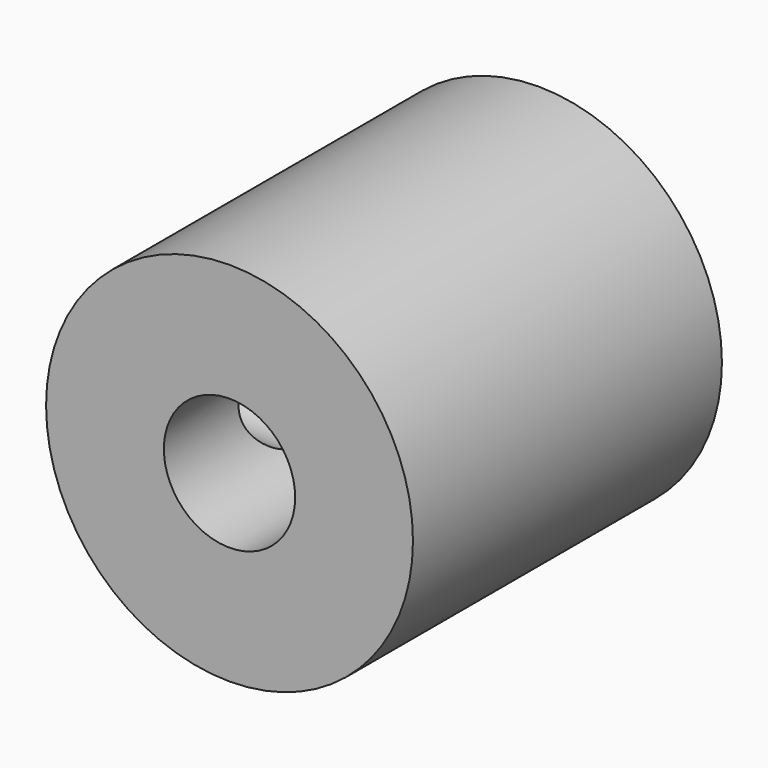
from build123d import *

# Parameters (mm, degrees)
F0_R     = 4.75
F0_R_2   = 1.7
F1_DEPTH = 10
F2_R     = 1.25
F3_DEPTH = 25


with BuildPart() as f1:
    # F0 (on Front) → F1 (new body)
    with BuildSketch(Plane.XZ):
        Circle(F0_R)
        Circle(F0_R_2, mode=Mode.SUBTRACT)
    extrude(amount=F1_DEPTH)

    # F2 (on Right) → F3 (cut)
    with BuildSketch(Plane.YZ):
        with Locations((-6.333333, 0)):
            Circle(F2_R)
    extrude(amount=-F3_DEPTH, mode=Mode.SUBTRACT)


solid = f1.part
